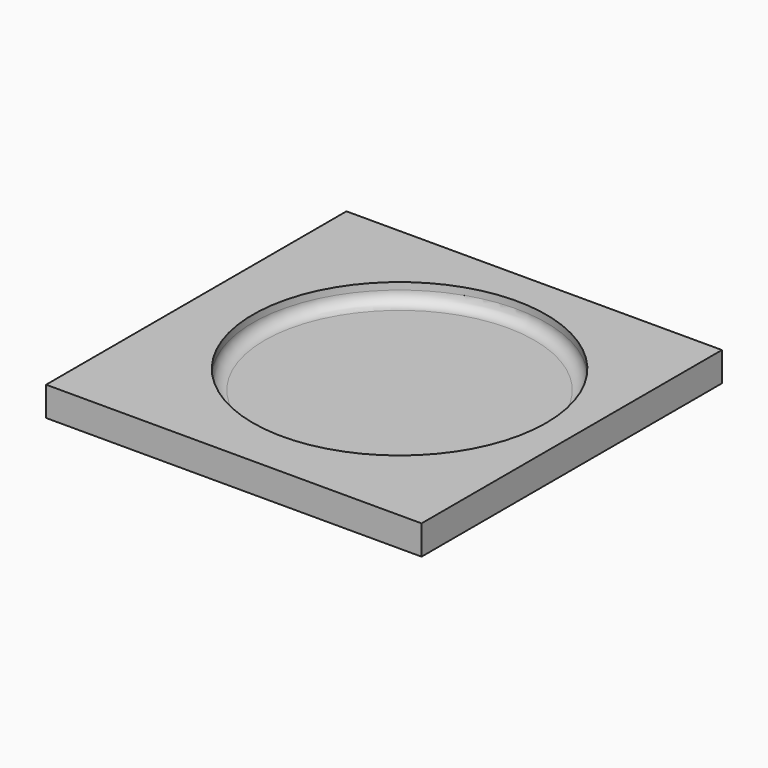
from build123d import *

# Parameters (mm, degrees)
F0_W     = 320
F0_H     = 320
F1_DEPTH = 25
F2_R     = 125
F3_DEPTH = 20
F4_R     = 10


with BuildPart() as f1:
    # F0 (on Top) → F1 (new body)
    with BuildSketch(Plane.XY):
        with Locations((6.127898, 10.826058)):
            Rectangle(F0_W, F0_H)
    extrude(amount=F1_DEPTH)


with BuildPart() as f3:
    # F2 (on face) → F3 (new body)
    with BuildSketch(Plane.XY.offset(25)):
        with Locations((357.512802, 15.676551)):
            Circle(F2_R)
    extrude(amount=F3_DEPTH)

    # F4
    f4_edges = [f3.edges().sort_by_distance(p)[0] for p in [
        (232.512802, 15.676551, 25),
    ]]
    fillet(f4_edges, radius=F4_R)


with BuildPart() as f3_1:
    # F5: moved
    add(f3.part.moved(Location((-342, 0, -16))))


with BuildPart() as f1_1:
    add(f1.part)

    # F6: cut F3
    add(f3_1.part, mode=Mode.SUBTRACT)


solid = f1_1.part
